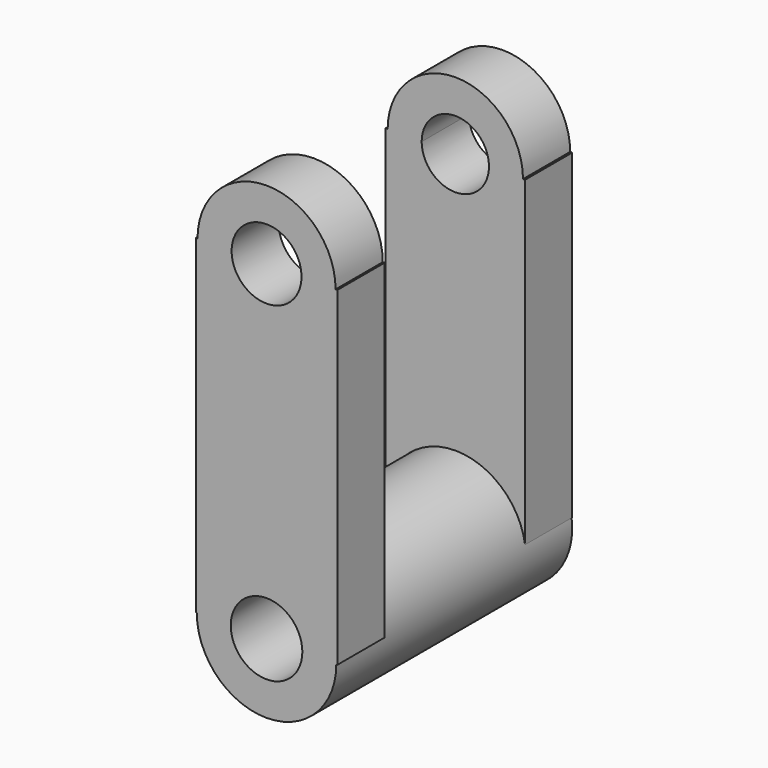
from build123d import *

# Parameters (mm, degrees)
F1_DEPTH = 76.2
F2_DEPTH = 15.24
F4_DEPTH = 15.24


with BuildPart() as f1:
    # F0 (on Front) → F1 (new body)
    with BuildSketch(Plane.XZ):
        with BuildLine():
            Line((9.2477568342, -42.6266789436), (18.0179582056, -42.6266789436))
            ThreePointArc((18.0179582056, -42.6266789436), (0, -24.608720738), (-18.0179582056, -42.6266789436))
            Line((-18.0179582056, -42.6266789436), (-9.2477568342, -42.6266789436))
            ThreePointArc((-9.2477568342, -42.6266789436), (0, -33.3789221094), (9.2477568342, -42.6266789436))
        make_face()
        with BuildLine():
            ThreePointArc((-18.0179582056, -42.6266789436), (0, -60.6446371492), (18.0179582056, -42.6266789436))
            Line((18.0179582056, -42.6266789436), (9.2477568342, -42.6266789436))
            ThreePointArc((9.2477568342, -42.6266789436), (0, -51.8744357778), (-9.2477568342, -42.6266789436))
            Line((-9.2477568342, -42.6266789436), (-18.0179582056, -42.6266789436))
        make_face()
    extrude(amount=-F1_DEPTH)

    # F0 (on Front) → F2 (join)
    with BuildSketch(Plane.XZ):
        with BuildLine():
            Line((18.0179582056, -42.6266789436), (18.2895697653, -42.6266789436))
            Line((18.2895697653, -42.6266789436), (18.2895697653, 42.6266789436))
            Line((18.2895697653, 42.6266789436), (17.8333127856, 42.6266789436))
            ThreePointArc((17.8333127856, 42.6266789436), (0, 24.793366158), (-17.8333127856, 42.6266789436))
            Line((-17.8333127856, 42.6266789436), (-18.2895697653, 42.6266789436))
            Line((-18.2895697653, 42.6266789436), (-18.2895697653, -42.6266789436))
            Line((-18.2895697653, -42.6266789436), (-18.0179582056, -42.6266789436))
            ThreePointArc((-18.0179582056, -42.6266789436), (0, -24.608720738), (18.0179582056, -42.6266789436))
        make_face()
        with BuildLine():
            Line((9.0340918857, 42.6266789436), (17.8333127856, 42.6266789436))
            ThreePointArc((17.8333127856, 42.6266789436), (0, 60.4599917292), (-17.8333127856, 42.6266789436))
            Line((-17.8333127856, 42.6266789436), (-9.0340918857, 42.6266789436))
            ThreePointArc((-9.0340918857, 42.6266789436), (0, 51.6607708293), (9.0340918857, 42.6266789436))
        make_face()
        with BuildLine():
            ThreePointArc((-17.8333127856, 42.6266789436), (0, 24.793366158), (17.8333127856, 42.6266789436))
            Line((17.8333127856, 42.6266789436), (9.0340918857, 42.6266789436))
            ThreePointArc((9.0340918857, 42.6266789436), (0, 33.5925870579), (-9.0340918857, 42.6266789436))
            Line((-9.0340918857, 42.6266789436), (-17.8333127856, 42.6266789436))
        make_face()
    extrude(amount=-F2_DEPTH)


with BuildPart() as f4:
    # F3 (on face) → F4 (new body)
    with BuildSketch(Plane(origin=(0, 76.2, 0), x_dir=(-1, 0, 0), z_dir=(0, 1, 0))):
        with BuildLine():
            ThreePointArc((-17.4840441192, 42.8191055285), (0, 25.3350614092), (17.4840441192, 42.8191055285))
            Line((17.4840441192, 42.8191055285), (8.6940024007, 42.8191055285))
            ThreePointArc((8.6940024007, 42.8191055285), (0, 34.1251031278), (-8.6940024007, 42.8191055285))
            Line((-8.6940024007, 42.8191055285), (-17.4840441192, 42.8191055285))
        make_face()
        with BuildLine():
            Line((8.6940024007, 42.8191055285), (17.4840441192, 42.8191055285))
            ThreePointArc((17.4840441192, 42.8191055285), (0, 60.3031496477), (-17.4840441192, 42.8191055285))
            Line((-17.4840441192, 42.8191055285), (-8.6940024007, 42.8191055285))
            ThreePointArc((-8.6940024007, 42.8191055285), (0, 51.5131079291), (8.6940024007, 42.8191055285))
        make_face()
        with BuildLine():
            ThreePointArc((-7.63e-08, -24.608720738), (11.9039767373, -29.0381965579), (18.0169306462, -40.1717815387))
            Line((18.0169306462, -40.1717815387), (18.0169306462, 42.8191055285))
            Line((18.0169306462, 42.8191055285), (17.4840441192, 42.8191055285))
            ThreePointArc((17.4840441192, 42.8191055285), (0, 25.3350614092), (-17.4840441192, 42.8191055285))
            Line((-17.4840441192, 42.8191055285), (-18.0169306462, 42.8191055285))
            Line((-18.0169306462, 42.8191055285), (-18.0169306462, -40.1717815387))
            ThreePointArc((-18.0169306462, -40.1717815387), (-11.903976795, -29.0381966078), (-7.63e-08, -24.608720738))
        make_face()
    extrude(amount=-F4_DEPTH)


solid = Compound([f1.part, f4.part])
